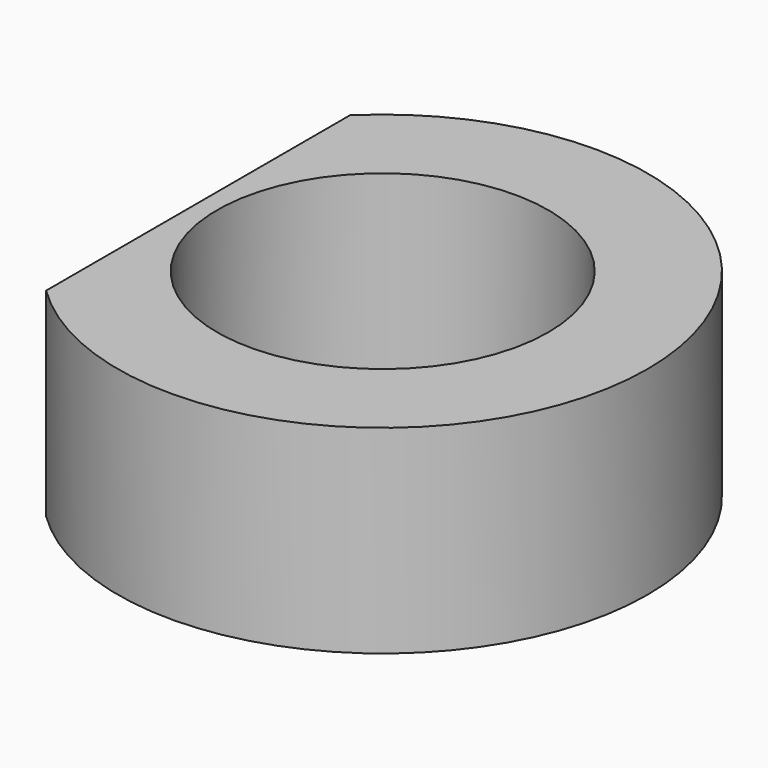
from build123d import *

# Parameters (mm, degrees)
F0_R     = 2.5
F1_DEPTH = 3


with BuildPart() as f1:
    # F0 (on Top) → F1 (new body)
    with BuildSketch(Plane.XY):
        with BuildLine():
            Line((-2.789211, 0), (-2.789211, -2.867106))
            ThreePointArc((-2.789211, -2.867106), (4, 0), (-2.789211, 2.867106))
            Line((-2.789211, 2.867106), (-2.789211, 0))
        make_face()
        Circle(F0_R, mode=Mode.SUBTRACT)
    extrude(amount=F1_DEPTH)


solid = f1.part
